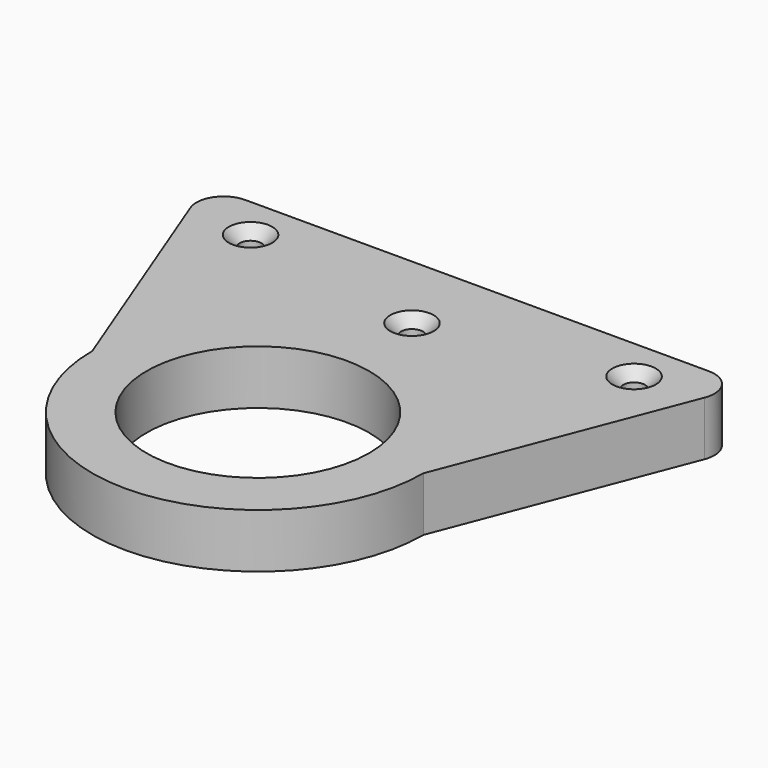
from build123d import *

# Parameters (mm, degrees)
F0_R     = 20.5
F0_R_2   = 2
F1_DEPTH = 10
F2_SIZE  = 2
F3_R     = 5


with BuildPart() as f1:
    # F0 (on Top) → F1 (new body)
    with BuildSketch(Plane.XY):
        with BuildLine():
            Line((-50, 50.5), (-30.5, 0))
            ThreePointArc((-30.5, 0), (0, -30.5), (30.5, 0))
            Line((30.5, 0), (50, 50.5))
            Line((50, 50.5), (-50, 50.5))
        make_face()
        Circle(F0_R, mode=Mode.SUBTRACT)
        with Locations((-35.330024, 42.484712)):
            Circle(F0_R_2, mode=Mode.SUBTRACT)
        with Locations((0, 35.5)):
            Circle(F0_R_2, mode=Mode.SUBTRACT)
        with Locations((35.330024, 42.484712)):
            Circle(F0_R_2, mode=Mode.SUBTRACT)
    extrude(amount=F1_DEPTH)

    # F2
    f2_edges = [f1.edges().sort_by_distance(p)[0] for p in [
        (-37.330024, 42.484712, 10),
        (-2, 35.5, 10),
        (33.330024, 42.484712, 10),
    ]]
    chamfer(f2_edges, length=F2_SIZE)

    # F3
    f3_edges = [f1.edges().sort_by_distance(p)[0] for p in [
        (50, 50.5, 5),
        (-50, 50.5, 5),
    ]]
    fillet(f3_edges, radius=F3_R)


solid = f1.part
